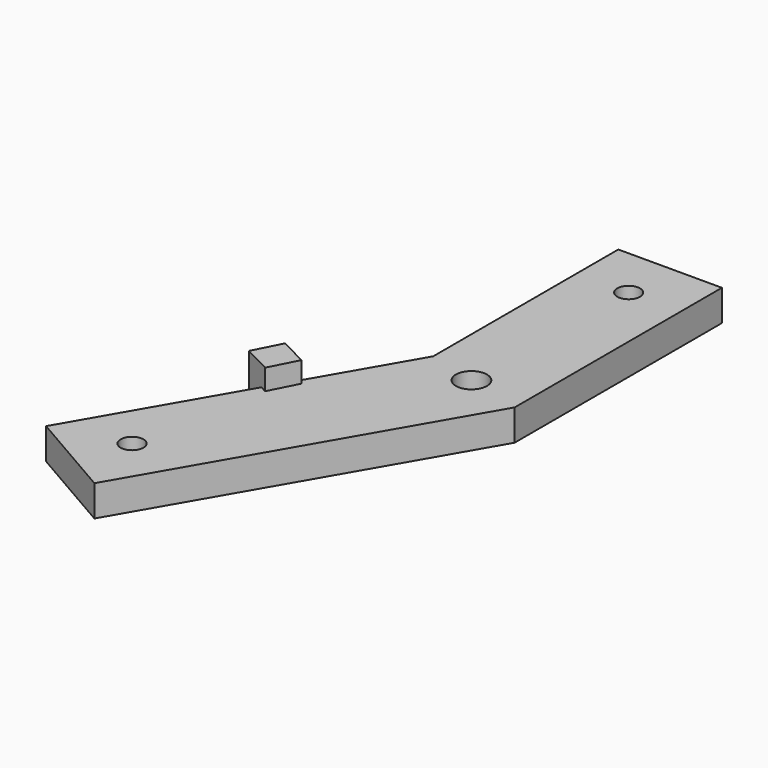
from build123d import *

# Parameters (mm, degrees)
SKETCH_R            = 1.1
SKETCH_R_2          = 1.5
PAD_DEPTH           = 3
BOX_W               = 3
BOX_H               = 3
BOX_DEPTH           = 5
BOX_PLACEMENT_ANGLE = 27


with BuildPart() as body:
    # Sketch → Pad (new body)
    with BuildSketch(Plane.XY):
        Polygon((-5.660254, -27.124356), (3, -32.124356), (20, -2.679492), (20, 22.320508), (10, 22.320508), (10, 0), align=None)
        with Locations((15, 17.320508)):
            Circle(SKETCH_R, mode=Mode.SUBTRACT)
        with Locations((1.169873, -25.294229)):
            Circle(SKETCH_R, mode=Mode.SUBTRACT)
        with Locations((14.687408, -1.255987)):
            Circle(SKETCH_R_2, mode=Mode.SUBTRACT)
    extrude(amount=PAD_DEPTH)


with BuildPart() as fusion:
    # Box → Box (new body)
    with BuildSketch(Plane.XY):
        with Locations((1.5, 1.5)):
            Rectangle(BOX_W, BOX_H)
    extrude(amount=BOX_DEPTH)


with BuildPart() as fusion_1:
    # Box placement: moved
    add(fusion.part.moved(Location((1, -11, 0))).rotate(Axis((1, -11, 0), (0, 0, -1)), BOX_PLACEMENT_ANGLE))

    # Fusion: union Body
    add(body.part)


solid = fusion_1.part
